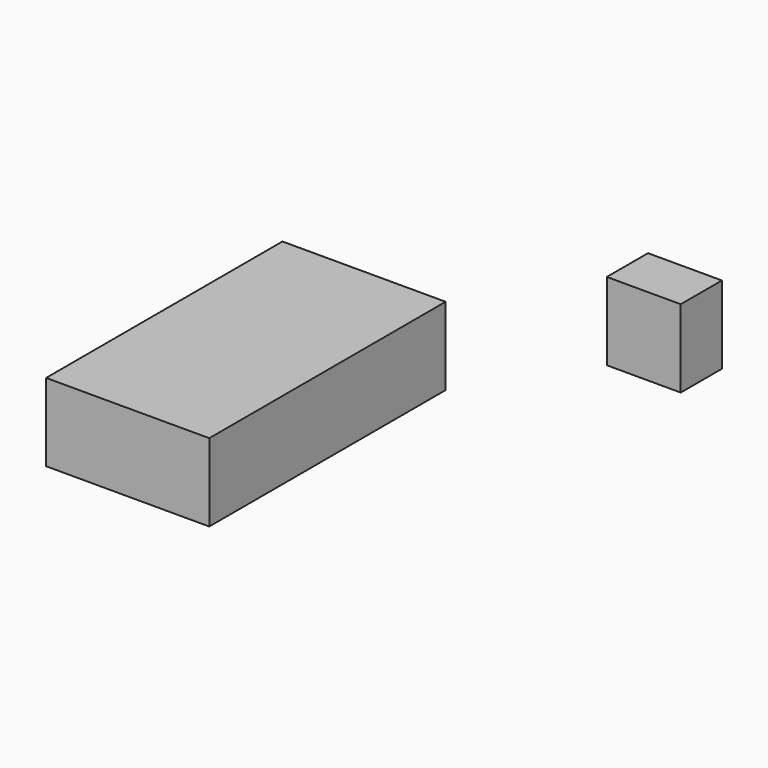
from build123d import *

# Parameters (mm, degrees)
F0_W     = 53.291075
F0_H     = 96.47904
F0_W_2   = 24.140559
F0_H_2   = 16.811595
F1_DEPTH = 25.4


with BuildPart() as f1:
    # F0 (on Top) → F1 (new body)
    with BuildSketch(Plane.XY):
        with Locations((12.422952, 8.56925)):
            Rectangle(F0_W, F0_H)
        with Locations((74.668336, 101.598985)):
            Rectangle(F0_W_2, F0_H_2)
    extrude(amount=F1_DEPTH)


solid = f1.part
